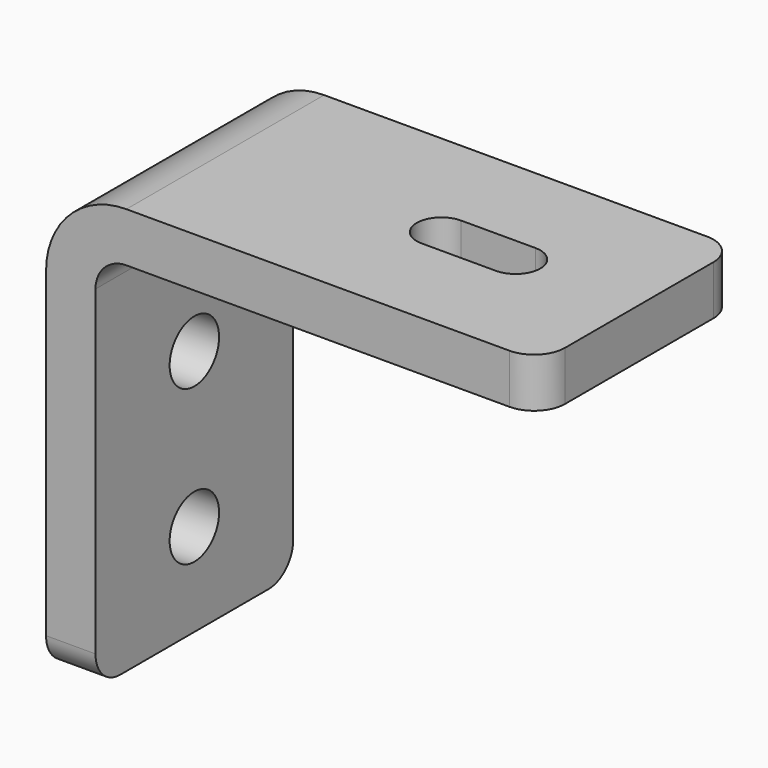
from build123d import *

# Parameters (mm, degrees)
F1_DEPTH = 20
F2_R     = 5
F4_DEPTH = 8
F5_R     = 5
F6_DEPTH = 8


with BuildPart() as f1:
    # F0 (on Front) → F1 (new body, symmetric)
    with BuildSketch(Plane.XZ):
        with BuildLine():
            Line((-40, -35), (-32, -35))
            Line((-32, -35), (-32, 22))
            ThreePointArc((-32, 22), (-30.535534, 25.535534), (-27, 27))
            Line((-27, 27), (40, 27))
            Line((40, 27), (40, 35))
            Line((40, 35), (-27, 35))
            ThreePointArc((-27, 35), (-36.192388, 31.192388), (-40, 22))
            Line((-40, 22), (-40, -35))
        make_face()
    extrude(amount=F1_DEPTH, both=True)

    # F2
    f2_edges = [f1.edges().sort_by_distance(p)[0] for p in [
        (40, -20, 31),
        (40, 20, 31),
        (-36, -20, -35),
        (-36, 20, -35),
    ]]
    fillet(f2_edges, radius=F2_R)

    # F3 (on face) → F4 (cut, through all)
    with BuildSketch(Plane.XY.offset(35)):
        with BuildLine():
            Line((8, -4), (20, -4))
            ThreePointArc((20, -4), (24, 0), (20, 4))
            Line((20, 4), (8, 4))
            ThreePointArc((8, 4), (4, 0), (8, -4))
        make_face()
    extrude(amount=-F4_DEPTH, mode=Mode.SUBTRACT)

    # F5 (on face) → F6 (cut, through all)
    with BuildSketch(Plane.YZ.offset(-32)):
        with Locations((0, -20)):
            Circle(F5_R)
        with Locations((0, 5)):
            Circle(F5_R)
    extrude(amount=-F6_DEPTH, mode=Mode.SUBTRACT)


solid = f1.part
